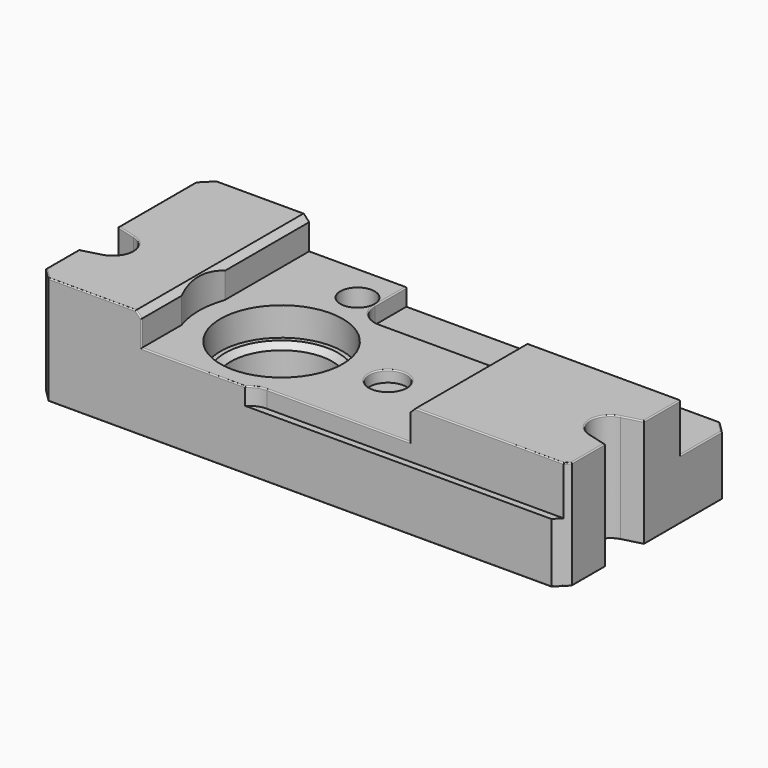
from build123d import *

# Parameters (mm, degrees)
F0_R     = 8.9
F3_DEPTH = 13.5
F0_W     = 27.7
F0_H     = 1.2
F0_H_2   = 11
F4_DEPTH = 10.5
F2_R     = 10.7
F5_DEPTH = 5
F2_R_2   = 3.25
F6_DEPTH = 2
F2_R_3   = 3
F7_DEPTH = 6
F8_DEPTH = 5.5
F9_SIZE  = 1
F10_SIZE = 2
F11_R    = 0.2


with BuildPart() as f3:
    # F0 (on Top) → F3 (new body)
    with BuildSketch(Plane.XY):
        with BuildLine():
            Line((0, 9.2066603875), (0, 0))
            Line((0, 0), (18.3, 0))
            Line((18.3, 0), (18.3, 8.7502631652))
            ThreePointArc((18.3, 8.7502631652), (17.5, 13.5), (18.3, 18.2497368348))
            Line((18.3, 18.2497368348), (18.3, 36.8))
            Line((18.3, 36.8), (0, 36.8))
            Line((0, 36.8), (0, 17.7933396125))
            Line((0, 17.7933396125), (3.4058666579, 16.880740392))
            ThreePointArc((3.4058666579, 16.880740392), (6, 13.5), (3.4058666579, 10.119259608))
            Line((3.4058666579, 10.119259608), (0, 9.2066603875))
        make_face()
        with BuildLine():
            Line((18.3, 8.7502631652), (18.3, 0))
            Line((18.3, 0), (36.4434286286, 0))
            ThreePointArc((36.4434286286, 0), (37.7508066615, 0.8878177829), (39.3, 1.2))
            Line((39.3, 1.2), (64.3, 1.2))
            Line((64.3, 1.2), (64.3, 25.8))
            Line((64.3, 25.8), (39.3, 25.8))
            ThreePointArc((39.3, 25.8), (36.4715728753, 26.9715728753), (35.3, 29.8))
            Line((35.3, 29.8), (35.3, 36.8))
            Line((35.3, 36.8), (18.3, 36.8))
            Line((18.3, 36.8), (18.3, 18.2497368348))
            ThreePointArc((18.3, 18.2497368348), (17.5, 13.5), (18.3, 8.7502631652))
        make_face()
        with Locations((32, 13.5)):
            Circle(F0_R, mode=Mode.SUBTRACT)
        with BuildLine():
            Line((64.3, 25.8), (64.3, 1.2))
            Line((64.3, 1.2), (92, 1.2))
            Line((92, 1.2), (92, 9.2066603875))
            Line((92, 9.2066603875), (88.5941333421, 10.119259608))
            ThreePointArc((88.5941333421, 10.119259608), (86, 13.5), (88.5941333421, 16.880740392))
            Line((88.5941333421, 16.880740392), (92, 17.7933396125))
            Line((92, 17.7933396125), (92, 25.8))
            Line((92, 25.8), (64.3, 25.8))
        make_face()
    extrude(amount=F3_DEPTH)

    # F0 (on Top) → F4 (join)
    with BuildSketch(Plane.XY):
        with Locations((78.15, 0.6)):
            Rectangle(F0_W, F0_H)
        with BuildLine():
            ThreePointArc((39.3, 1.2), (37.7508066615, 0.8878177829), (36.4434286286, 0))
            Line((36.4434286286, 0), (64.3, 0))
            Line((64.3, 0), (64.3, 1.2))
            Line((64.3, 1.2), (39.3, 1.2))
        make_face()
        with BuildLine():
            Line((39.3, 25.8), (64.3, 25.8))
            Line((64.3, 25.8), (64.3, 36.8))
            Line((64.3, 36.8), (35.3, 36.8))
            Line((35.3, 36.8), (35.3, 29.8))
            ThreePointArc((35.3, 29.8), (36.4715728753, 26.9715728753), (39.3, 25.8))
        make_face()
        with Locations((78.15, 31.3)):
            Rectangle(F0_W, F0_H_2)
    extrude(amount=F4_DEPTH)

    # F2 (on offset) → F5 (cut)
    with BuildSketch(Plane.XY.offset(13.5)):
        with Locations((32, 13.5)):
            Circle(F2_R)
    extrude(amount=-F5_DEPTH, mode=Mode.SUBTRACT)

    # F2 (on offset) → F6 (cut)
    with BuildSketch(Plane.XY.offset(13.5)):
        with Locations((50.6, 13.5)):
            Circle(F2_R_2)
    extrude(amount=-F6_DEPTH, mode=Mode.SUBTRACT)

    # F2 (on offset) → F7 (cut)
    with BuildSketch(Plane.XY.offset(13.5)):
        with Locations((32, 30.1)):
            Circle(F2_R_3)
    extrude(amount=-F7_DEPTH, mode=Mode.SUBTRACT)

    # F2 (on offset) → F8 (join)
    with BuildSketch(Plane.XY.offset(13.5)):
        with BuildLine():
            Line((18.3, 0), (18.3, 8.7502631652))
            ThreePointArc((18.3, 8.7502631652), (17.5, 13.5), (18.3, 18.2497368348))
            Line((18.3, 18.2497368348), (18.3, 36.8))
            Line((18.3, 36.8), (0, 36.8))
            Line((0, 36.8), (0, 17.7933396125))
            Line((0, 17.7933396125), (3.4058666579, 16.880740392))
            ThreePointArc((3.4058666579, 16.880740392), (6, 13.5), (3.4058666579, 10.119259608))
            Line((3.4058666579, 10.119259608), (0, 9.2066603875))
            Line((0, 9.2066603875), (0, 0))
            Line((0, 0), (18.3, 0))
        make_face()
        with BuildLine():
            Line((92, 17.7933396125), (92, 25.8))
            Line((92, 25.8), (64.3, 25.8))
            Line((64.3, 25.8), (64.3, 1.2))
            Line((64.3, 1.2), (92, 1.2))
            Line((92, 1.2), (92, 9.2066603875))
            Line((92, 9.2066603875), (88.5941333421, 10.119259608))
            ThreePointArc((88.5941333421, 10.119259608), (86, 13.5), (88.5941333421, 16.880740392))
            Line((88.5941333421, 16.880740392), (92, 17.7933396125))
        make_face()
    extrude(amount=F8_DEPTH)

    # F9
    f9_edges = [f3.edges().sort_by_distance(p)[0] for p in [
        (23.1, 13.5, 8.5),
        (18.3, 27.524868, 19),
        (64.3, 13.5, 19),
    ]]
    chamfer(f9_edges, length=F9_SIZE)

    # F10
    f10_edges = [f3.edges().sort_by_distance(p)[0] for p in [
        (92, 0, 5.25),
        (92, 36.8, 5.25),
        (0, 36.8, 9.5),
        (0, 0, 9.5),
    ]]
    chamfer(f10_edges, length=F10_SIZE)

    # F11
    f11_edges = [f3.edges().sort_by_distance(p)[0] for p in [
        (1, 1, 19),
        (0, 5.60333, 19),
        (1.702933, 9.66296, 19),
        (6, 13.5, 19),
        (0, 26.29667, 19),
        (1.702933, 17.33704, 19),
        (1, 35.8, 19),
        (9.65, 36.8, 19),
        (17.8, 36.8, 18.5),
        (18.3, 36.8, 15.75),
        (26.8, 36.8, 13.5),
        (35.3, 36.8, 12),
        (62.65, 36.8, 10.5),
        (91, 35.8, 10.5),
        (92, 30.3, 10.5),
        (92, 25.8, 14.75),
        (78.65, 25.8, 19),
        (78.25, 1.2, 19),
        (91.6, 1.6, 19),
        (92, 5.60333, 19),
        (90.297067, 9.66296, 19),
        (86, 13.5, 19),
        (92, 21.79667, 19),
        (64.3, 1.2, 15.75),
        (51.8, 1.2, 13.5),
        (27.371714, 0, 13.5),
        (18.3, 0, 15.75),
        (17.8, 0, 18.5),
        (9.65, 0, 19),
        (64.3, 25.8, 15.75),
        (64.8, 25.8, 18.5),
        (51.8, 25.8, 13.5),
        (36.471573, 26.971573, 13.5),
        (35.3, 33.3, 13.5),
        (46, 36.8, 0),
        (91, 35.8, 0),
        (92, 26.29667, 0),
        (90.297067, 17.33704, 0),
        (86, 13.5, 0),
        (92, 5.60333, 0),
        (91, 1, 0),
        (46, 0, 0),
        (1, 1, 0),
        (0, 5.60333, 0),
        (1.702933, 9.66296, 0),
        (1, 35.8, 0),
        (0, 26.29667, 0),
        (47.35, 13.5, 13.5),
    ]]
    fillet(f11_edges, radius=F11_R)


solid = f3.part
